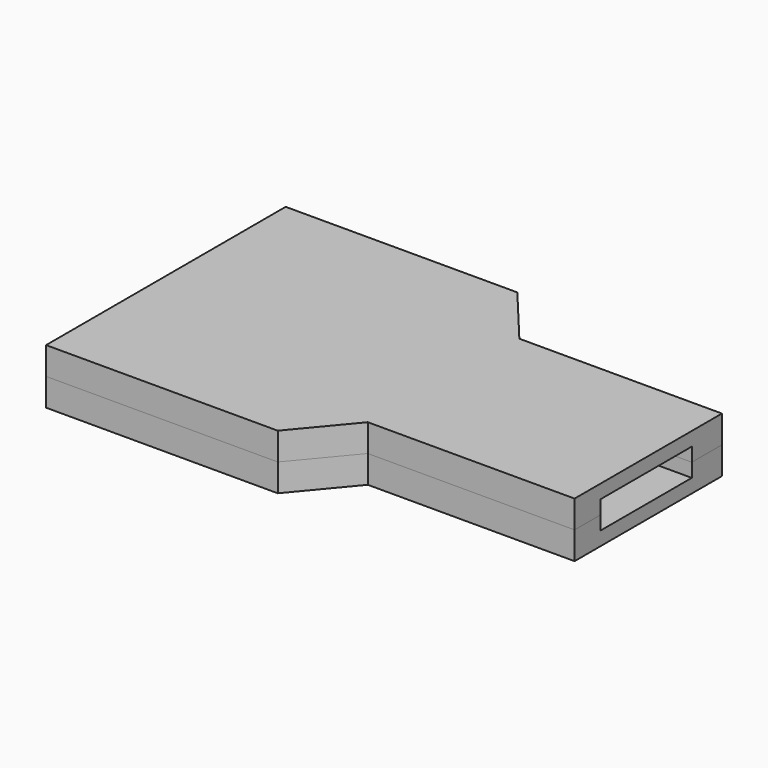
from build123d import *

# Parameters (mm, degrees)
F1_DEPTH = 3
F2_DEPTH = 1.5


with BuildPart() as f1:
    # F0 (on Top) → F1 (new body)
    with BuildSketch(Plane.XY):
        Polygon((-24.2, -6), (-24.2, 18.4), (-5, 18.4), (0, 12.4), (24.5, 12.4), (24.5, 16.5), (2.448029, 16.5), (-3.009612, 23.049168), (-28.229949, 23.049168), (-28.229949, -9.550845), (-3.009612, -9.550845), (1.990388, -3.550845), (24.5, -3.550845), (24.5, 0), (0, 0), (-5, -6), align=None)
    extrude(amount=F1_DEPTH)

    # F0 (on Top) → F2 (join)
    with BuildSketch(Plane.XY):
        Polygon((-5, 18.4), (-24.2, 18.4), (-24.2, -6), (-5, -6), (0, 0), (24.5, 0), (24.5, 12.4), (0, 12.4), align=None)
        Polygon((-24.2, -6), (-24.2, 18.4), (-5, 18.4), (0, 12.4), (24.5, 12.4), (24.5, 16.5), (2.448029, 16.5), (-3.009612, 23.049168), (-28.229949, 23.049168), (-28.229949, -9.550845), (-3.009612, -9.550845), (1.990388, -3.550845), (24.5, -3.550845), (24.5, 0), (0, 0), (-5, -6), align=None)
    extrude(amount=F2_DEPTH)


with BuildPart() as f3_1:
    # F3: instance of F1
    add(f1.part.mirror(Plane(origin=(-6.607222, 7.398073, 3), x_dir=(1, 0, 0), z_dir=(0, 0, 1))))


solid = Compound([f1.part, f3_1.part])
